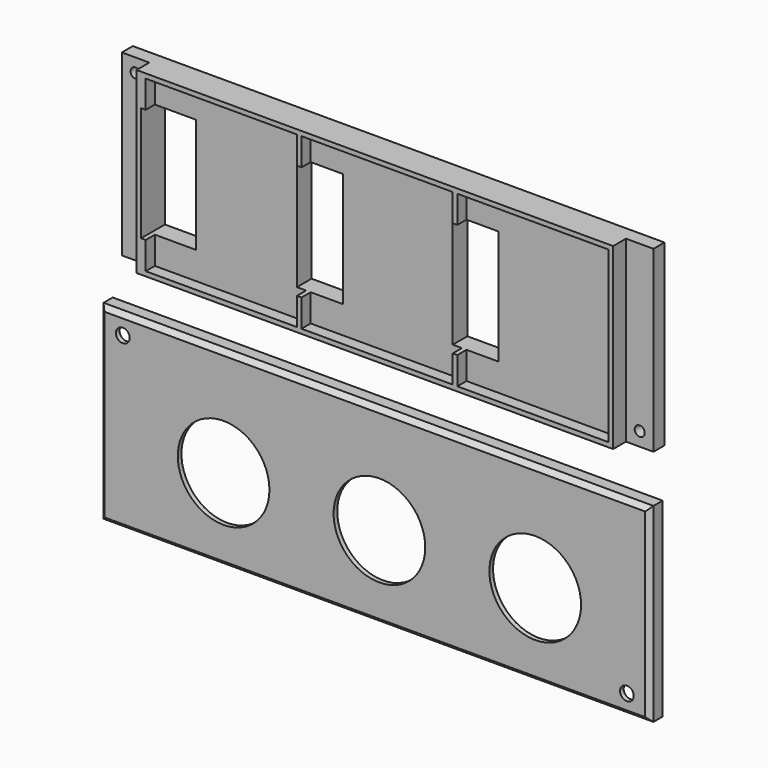
from build123d import *

# Parameters (mm, degrees)
F0_W      = 104
F0_H      = 39
F1_DEPTH  = 3.5
F2_T      = -1
F3_W      = 1
F3_H      = 37
F4_DEPTH  = 2.5
F5_W      = 116
F5_H      = 39
F5_R      = 1.1
F6_DEPTH  = 3
F7_W      = 10
F7_H      = 25
F8_DEPTH  = 5.6
F9_W      = 120
F9_H      = 41.5
F10_DEPTH = 3.5
F11_T     = -1
F12_R     = 1.5
F12_R_2   = 10
F13_DEPTH = 1
F14_SIZE  = 1


with BuildPart() as f1:
    # F0 (on Front) → F1 (new body)
    with BuildSketch(Plane.XZ):
        Rectangle(F0_W, F0_H)
    extrude(amount=F1_DEPTH)

    # F2
    f2_openings = [f1.faces().sort_by_distance(p)[0] for p in [
        (0, -3.5, 0),
    ]]
    offset(amount=F2_T, openings=f2_openings)

    # F3 (on face) → F4 (join)
    with BuildSketch(Plane.XZ.offset(1)):
        with Locations((-16.5, 0)):
            Rectangle(F3_W, F3_H)
        with Locations((17.5, 0)):
            Rectangle(F3_W, F3_H)
        with Locations((-50.5, 0)):
            Rectangle(F3_W, F3_H)
    extrude(amount=F4_DEPTH)

    # F5 (on face) → F6 (join)
    with BuildSketch(Plane(origin=(0, 0, 0), x_dir=(-1, 0, 0), z_dir=(0, 1, 0))):
        Rectangle(F5_W, F5_H)
        with Locations((-55, -16.5)):
            Circle(F5_R, mode=Mode.SUBTRACT)
        with Locations((55, 16.5)):
            Circle(F5_R, mode=Mode.SUBTRACT)
    extrude(amount=F6_DEPTH)

    # F7 (on Front) → F8 (cut, symmetric)
    with BuildSketch(Plane.XZ):
        with Locations((-46, 0)):
            Rectangle(F7_W, F7_H)
        with Locations((-14, 0)):
            Rectangle(F7_W, F7_H)
        with Locations((20, 0)):
            Rectangle(F7_W, F7_H)
    extrude(amount=F8_DEPTH, both=True, mode=Mode.SUBTRACT)


with BuildPart() as f10:
    # F9 (on Front) → F10 (new body)
    with BuildSketch(Plane.XZ):
        with Locations((0, -48.969205)):
            Rectangle(F9_W, F9_H)
    extrude(amount=F10_DEPTH)

    # F11
    f11_openings = [f10.faces().sort_by_distance(p)[0] for p in [
        (0, 0, -48.969205),
    ]]
    offset(amount=F11_T, openings=f11_openings)

    # F12 (on face) → F13 (cut)
    with BuildSketch(Plane.XZ.offset(3.5)):
        with Locations((55, -65.469205)):
            Circle(F12_R)
        with Locations((-55, -32.469205)):
            Circle(F12_R)
        with Locations((-33, -51.719205)):
            Circle(F12_R_2)
        with Locations((1, -51.719205)):
            Circle(F12_R_2)
        with Locations((35, -51.719205)):
            Circle(F12_R_2)
    extrude(amount=-F13_DEPTH, mode=Mode.SUBTRACT)

    # F14
    f14_edges = [f10.edges().sort_by_distance(p)[0] for p in [
        (0, -3.5, -28.219205),
        (-60, -3.5, -48.969205),
        (60, -3.5, -48.969205),
        (0, -3.5, -69.719205),
    ]]
    chamfer(f14_edges, length=F14_SIZE)


solid = Compound([f1.part, f10.part])
